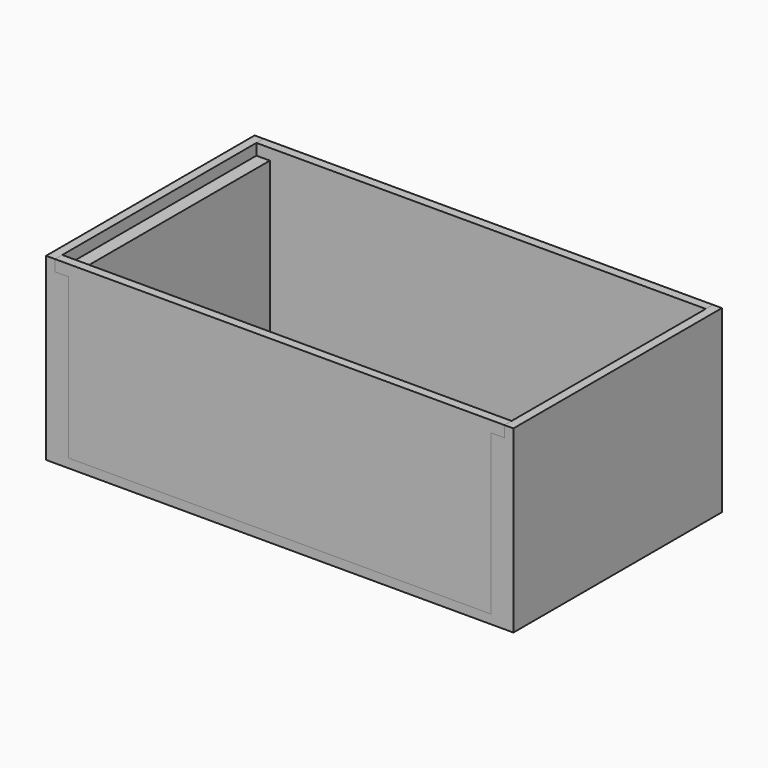
from build123d import *

# Parameters (mm, degrees)
F0_W      = 264.16
F0_H      = 147.32
F1_DEPTH  = 5.08
F4_DEPTH  = 12.7
F7_DEPTH  = 5.08
F10_W     = 147.32
F10_H     = 6.35
F11_DEPTH = 5.08


with BuildPart() as f1:
    # F0 (on Top) → F1 (new body)
    with BuildSketch(Plane.XY):
        Rectangle(F0_W, F0_H)
    extrude(amount=F1_DEPTH)

    # F3 (on offset) → F4 (join)
    with BuildSketch(Plane.YZ.offset(-132.08)):
        Polygon((-73.66, 0), (0, 0), (73.66, 0), (73.66, 95.25), (0, 95.25), (-73.66, 95.25), align=None)
    extrude(amount=F4_DEPTH)



with BuildPart() as f7:
    # F6 (on offset) → F7 (new body)
    with BuildSketch(Plane.XZ.offset(73.66)):
        Polygon((-132.08, 0), (0, 0), (132.08, 0), (132.08, 101.6), (-132.08, 101.6), align=None)
    extrude(amount=-F7_DEPTH)


with BuildPart() as f8_1:
    # F8: instance of F7
    add(f7.part.mirror(Plane.XZ))


with BuildPart() as f11:
    # F10 (on offset) → F11 (new body)
    with BuildSketch(Plane.YZ.offset(-132.08)):
        with Locations((0, 98.425)):
            Rectangle(F10_W, F10_H)
    extrude(amount=F11_DEPTH)


with BuildPart() as f1_1:
    add(f1.part)

    add(f11.part)  # F12 merges F11
    # F12: F11, F1 across plane
    add(f11.part.mirror(Plane.YZ))
    add(f1.part.mirror(Plane.YZ))


solid = Compound([f7.part, f8_1.part, f1_1.part])
